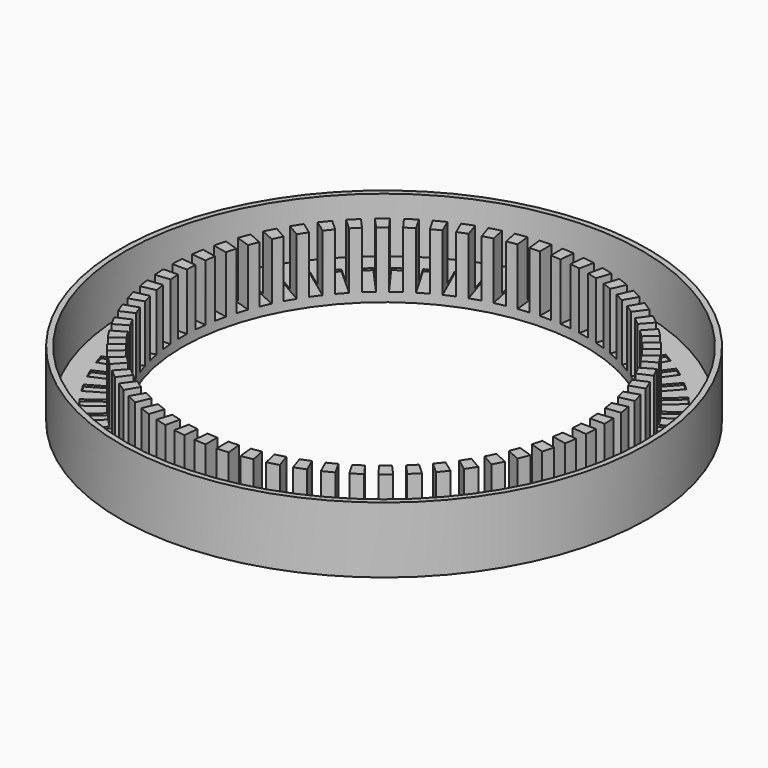
from build123d import *

# Parameters (mm, degrees)
SKETCH004_R        = 72
SKETCH004_R_2      = 55
PAD002_DEPTH       = 15
PAD002_DEPTH_BACK  = 3
SKETCH005_R        = 70.5
SKETCH005_R_2      = 59
POCKET002_DEPTH    = 15
SHAPEBINDER003_W   = 3
SHAPEBINDER003_H   = 12
SHAPEBINDER003_W_2 = 12
SHAPEBINDER003_H_2 = 3
POCKET003_DEPTH    = 15.5


with BuildPart() as part:
    # Sketch004 → Pad002 (new body, two sides)
    with BuildSketch(Plane.XY) as pad002_sk:
        Circle(SKETCH004_R)
        Circle(SKETCH004_R_2, mode=Mode.SUBTRACT)
    extrude(amount=PAD002_DEPTH)
    extrude(pad002_sk.sketch, amount=-PAD002_DEPTH_BACK)

    # Sketch005 → Pocket002 (cut)
    with BuildSketch(Plane.XY):
        Circle(SKETCH005_R)
        Circle(SKETCH005_R_2, mode=Mode.SUBTRACT)
    extrude(amount=POCKET002_DEPTH, mode=Mode.SUBTRACT)

    # ShapeBinder003 → Pocket003 (cut)
    with BuildSketch(Plane(origin=(0, 0, 15), x_dir=(0, 1, 0), z_dir=(0, 0, 1))):
        with Locations((0, -59)):
            Rectangle(SHAPEBINDER003_W, SHAPEBINDER003_H)
        Polygon((7.031791, -52.552868), (4.048226, -52.866453), (5.302567, -64.800716), (8.286133, -64.487131), align=None)
        Polygon((12.486541, -51.529955), (9.552098, -52.15369), (12.047039, -63.891462), (14.981481, -63.267727), align=None)
        Polygon((17.804485, -49.94247), (14.951316, -50.869521), (18.65952, -62.282199), (21.512689, -61.355148), align=None)
        Polygon((22.92736, -47.807804), (20.186724, -49.028014), (25.067564, -59.99056), (27.8082, -58.77035), align=None)
        Polygon((27.799038, -45.149346), (25.200962, -46.649346), (31.200962, -57.041651), (33.799038, -55.541651), align=None)
        Polygon((32.366144, -41.996223), (29.939093, -43.759579), (36.992516, -53.467783), (39.419567, -51.704427), align=None)
        Polygon((36.578639, -38.38298), (34.349205, -40.390372), (42.378772, -49.30811), (44.608207, -47.300718), align=None)
        Polygon((40.390372, -34.349205), (38.38298, -36.578639), (47.300718, -44.608207), (49.30811, -42.378772), align=None)
        Polygon((43.759579, -29.939093), (41.996223, -32.366144), (51.704427, -39.419567), (53.467783, -36.992516), align=None)
        Polygon((46.649346, -25.200962), (45.149346, -27.799038), (55.541651, -33.799038), (57.041651, -31.200962), align=None)
        Polygon((49.028014, -20.186724), (47.807804, -22.92736), (58.77035, -27.8082), (59.99056, -25.067564), align=None)
        Polygon((50.869521, -14.951316), (49.94247, -17.804485), (61.355148, -21.512689), (62.282199, -18.65952), align=None)
        Polygon((52.15369, -9.552098), (51.529955, -12.486541), (63.267727, -14.981481), (63.891462, -12.047039), align=None)
        Polygon((52.866453, -4.048226), (52.552868, -7.031791), (64.487131, -8.286133), (64.800716, -5.302567), align=None)
        with Locations((59, 0)):
            Rectangle(SHAPEBINDER003_W_2, SHAPEBINDER003_H_2)
        Polygon((52.552868, 7.031791), (52.866453, 4.048226), (64.800716, 5.302567), (64.487131, 8.286133), align=None)
        Polygon((51.529955, 12.486541), (52.15369, 9.552098), (63.891462, 12.047039), (63.267727, 14.981481), align=None)
        Polygon((49.94247, 17.804485), (50.869521, 14.951316), (62.282199, 18.65952), (61.355148, 21.512689), align=None)
        Polygon((47.807804, 22.92736), (49.028014, 20.186724), (59.99056, 25.067564), (58.77035, 27.8082), align=None)
        Polygon((45.149346, 27.799038), (46.649346, 25.200962), (57.041651, 31.200962), (55.541651, 33.799038), align=None)
        Polygon((41.996223, 32.366144), (43.759579, 29.939093), (53.467783, 36.992516), (51.704427, 39.419567), align=None)
        Polygon((38.38298, 36.578639), (40.390372, 34.349205), (49.30811, 42.378772), (47.300718, 44.608207), align=None)
        Polygon((34.349205, 40.390372), (36.578639, 38.38298), (44.608207, 47.300718), (42.378772, 49.30811), align=None)
        Polygon((29.939093, 43.759579), (32.366144, 41.996223), (39.419567, 51.704427), (36.992516, 53.467783), align=None)
        Polygon((25.200962, 46.649346), (27.799038, 45.149346), (33.799038, 55.541651), (31.200962, 57.041651), align=None)
        Polygon((20.186724, 49.028014), (22.92736, 47.807804), (27.8082, 58.77035), (25.067564, 59.99056), align=None)
        Polygon((14.951316, 50.869521), (17.804485, 49.94247), (21.512689, 61.355148), (18.65952, 62.282199), align=None)
        Polygon((9.552098, 52.15369), (12.486541, 51.529955), (14.981481, 63.267727), (12.047039, 63.891462), align=None)
        Polygon((4.048226, 52.866453), (7.031791, 52.552868), (8.286133, 64.487131), (5.302567, 64.800716), align=None)
        with Locations((0, 59)):
            Rectangle(SHAPEBINDER003_W, SHAPEBINDER003_H)
        Polygon((-7.031791, 52.552868), (-4.048226, 52.866453), (-5.302567, 64.800716), (-8.286133, 64.487131), align=None)
        Polygon((-12.486541, 51.529955), (-9.552098, 52.15369), (-12.047039, 63.891462), (-14.981481, 63.267727), align=None)
        Polygon((-17.804485, 49.94247), (-14.951316, 50.869521), (-18.65952, 62.282199), (-21.512689, 61.355148), align=None)
        Polygon((-22.92736, 47.807804), (-20.186724, 49.028014), (-25.067564, 59.99056), (-27.8082, 58.77035), align=None)
        Polygon((-27.799038, 45.149346), (-25.200962, 46.649346), (-31.200962, 57.041651), (-33.799038, 55.541651), align=None)
        Polygon((-32.366144, 41.996223), (-29.939093, 43.759579), (-36.992516, 53.467783), (-39.419567, 51.704427), align=None)
        Polygon((-36.578639, 38.38298), (-34.349205, 40.390372), (-42.378772, 49.30811), (-44.608207, 47.300718), align=None)
        Polygon((-40.390372, 34.349205), (-38.38298, 36.578639), (-47.300718, 44.608207), (-49.30811, 42.378772), align=None)
        Polygon((-43.759579, 29.939093), (-41.996223, 32.366144), (-51.704427, 39.419567), (-53.467783, 36.992516), align=None)
        Polygon((-46.649346, 25.200962), (-45.149346, 27.799038), (-55.541651, 33.799038), (-57.041651, 31.200962), align=None)
        Polygon((-49.028014, 20.186724), (-47.807804, 22.92736), (-58.77035, 27.8082), (-59.99056, 25.067564), align=None)
        Polygon((-50.869521, 14.951316), (-49.94247, 17.804485), (-61.355148, 21.512689), (-62.282199, 18.65952), align=None)
        Polygon((-52.15369, 9.552098), (-51.529955, 12.486541), (-63.267727, 14.981481), (-63.891462, 12.047039), align=None)
        Polygon((-52.866453, 4.048226), (-52.552868, 7.031791), (-64.487131, 8.286133), (-64.800716, 5.302567), align=None)
        with Locations((-59, 0)):
            Rectangle(SHAPEBINDER003_W_2, SHAPEBINDER003_H_2)
        Polygon((-52.552868, -7.031791), (-52.866453, -4.048226), (-64.800716, -5.302567), (-64.487131, -8.286133), align=None)
        Polygon((-51.529955, -12.486541), (-52.15369, -9.552098), (-63.891462, -12.047039), (-63.267727, -14.981481), align=None)
        Polygon((-49.94247, -17.804485), (-50.869521, -14.951316), (-62.282199, -18.65952), (-61.355148, -21.512689), align=None)
        Polygon((-47.807804, -22.92736), (-49.028014, -20.186724), (-59.99056, -25.067564), (-58.77035, -27.8082), align=None)
        Polygon((-45.149346, -27.799038), (-46.649346, -25.200962), (-57.041651, -31.200962), (-55.541651, -33.799038), align=None)
        Polygon((-41.996223, -32.366144), (-43.759579, -29.939093), (-53.467783, -36.992516), (-51.704427, -39.419567), align=None)
        Polygon((-38.38298, -36.578639), (-40.390372, -34.349205), (-49.30811, -42.378772), (-47.300718, -44.608207), align=None)
        Polygon((-34.349205, -40.390372), (-36.578639, -38.38298), (-44.608207, -47.300718), (-42.378772, -49.30811), align=None)
        Polygon((-29.939093, -43.759579), (-32.366144, -41.996223), (-39.419567, -51.704427), (-36.992516, -53.467783), align=None)
        Polygon((-25.200962, -46.649346), (-27.799038, -45.149346), (-33.799038, -55.541651), (-31.200962, -57.041651), align=None)
        Polygon((-20.186724, -49.028014), (-22.92736, -47.807804), (-27.8082, -58.77035), (-25.067564, -59.99056), align=None)
        Polygon((-14.951316, -50.869521), (-17.804485, -49.94247), (-21.512689, -61.355148), (-18.65952, -62.282199), align=None)
        Polygon((-9.552098, -52.15369), (-12.486541, -51.529955), (-14.981481, -63.267727), (-12.047039, -63.891462), align=None)
        Polygon((-4.048226, -52.866453), (-7.031791, -52.552868), (-8.286133, -64.487131), (-5.302567, -64.800716), align=None)
    extrude(amount=-POCKET003_DEPTH, mode=Mode.SUBTRACT)


solid = part.part
